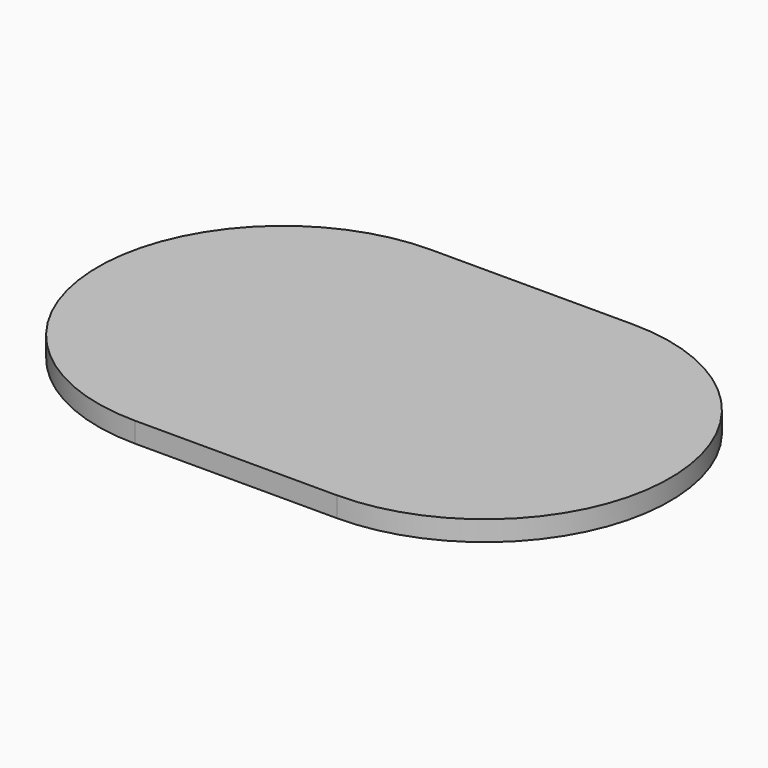
from build123d import *

# Parameters (mm, degrees)
F1_DEPTH = 3


with BuildPart() as f1:
    # F0 (on Top) → F1 (new body)
    with BuildSketch(Plane.XY):
        with BuildLine():
            Line((0, 28.46596), (-15, 28.46596))
            ThreePointArc((-15, 28.46596), (-42.5, 0.96596), (-15, -26.53404))
            Line((-15, -26.53404), (0, -26.53404))
            Line((0, -26.53404), (15, -26.53404))
            ThreePointArc((15, -26.53404), (42.5, 0.96596), (15, 28.46596))
            Line((15, 28.46596), (0, 28.46596))
        make_face()
    extrude(amount=F1_DEPTH)


solid = f1.part
